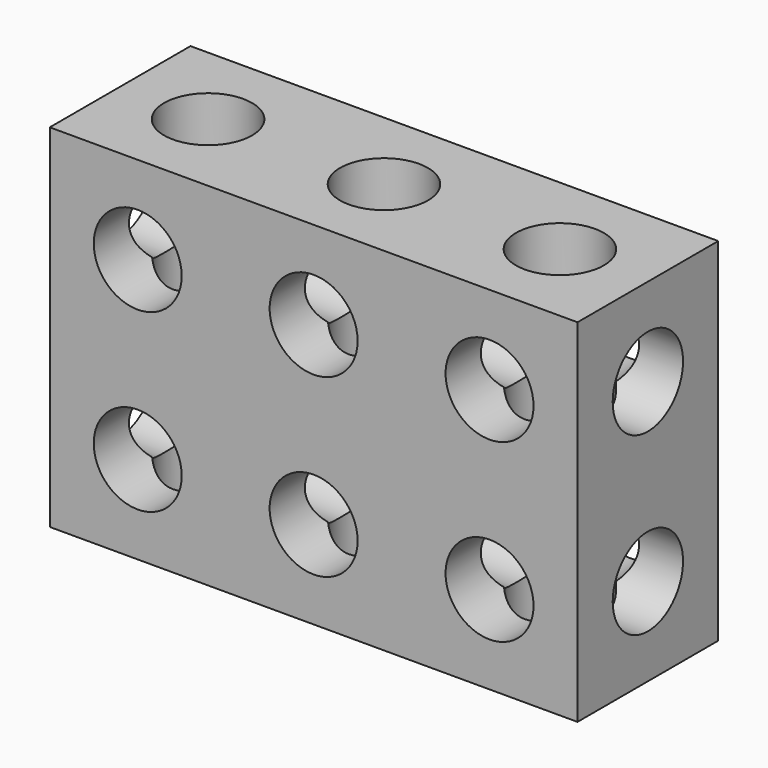
from build123d import *

# Parameters (mm, degrees)
F0_W     = 76.2
F0_H     = 50.8
F1_DEPTH = 12.7
F2_R     = 6.35
F3_DEPTH = 25.4
F4_R     = 6.35
F5_DEPTH = 76.2
F6_R     = 6.35
F7_DEPTH = 50.8


with BuildPart() as f1:
    # F0 (on Front) → F1 (new body, symmetric)
    with BuildSketch(Plane.XZ):
        Rectangle(F0_W, F0_H)
    extrude(amount=F1_DEPTH, both=True)

    # F2 (on face) → F3 (cut, through all)
    with BuildSketch(Plane.XZ.offset(12.7)):
        with Locations((-25.4, 12.7)):
            Circle(F2_R)
        with Locations((0, 12.7)):
            Circle(F2_R)
        with Locations((25.4, 12.7)):
            Circle(F2_R)
        with Locations((-25.4, -12.7)):
            Circle(F2_R)
        with Locations((0, -12.7)):
            Circle(F2_R)
        with Locations((25.4, -12.7)):
            Circle(F2_R)
    extrude(amount=-F3_DEPTH, mode=Mode.SUBTRACT)

    # F4 (on face) → F5 (cut, through all)
    with BuildSketch(Plane(origin=(-38.1, 0, 0), x_dir=(0, -1, 0), z_dir=(-1, 0, 0))):
        with Locations((0, 12.7)):
            Circle(F4_R)
        with Locations((0, -12.7)):
            Circle(F4_R)
    extrude(amount=-F5_DEPTH, mode=Mode.SUBTRACT)

    # F6 (on face) → F7 (cut, through all)
    with BuildSketch(Plane(origin=(0, 0, -25.4), x_dir=(1, 0, 0), z_dir=(0, 0, -1))):
        with Locations((-25.4, 0)):
            Circle(F6_R)
        Circle(F6_R)
        with Locations((25.4, 0)):
            Circle(F6_R)
    extrude(amount=-F7_DEPTH, mode=Mode.SUBTRACT)


solid = f1.part
